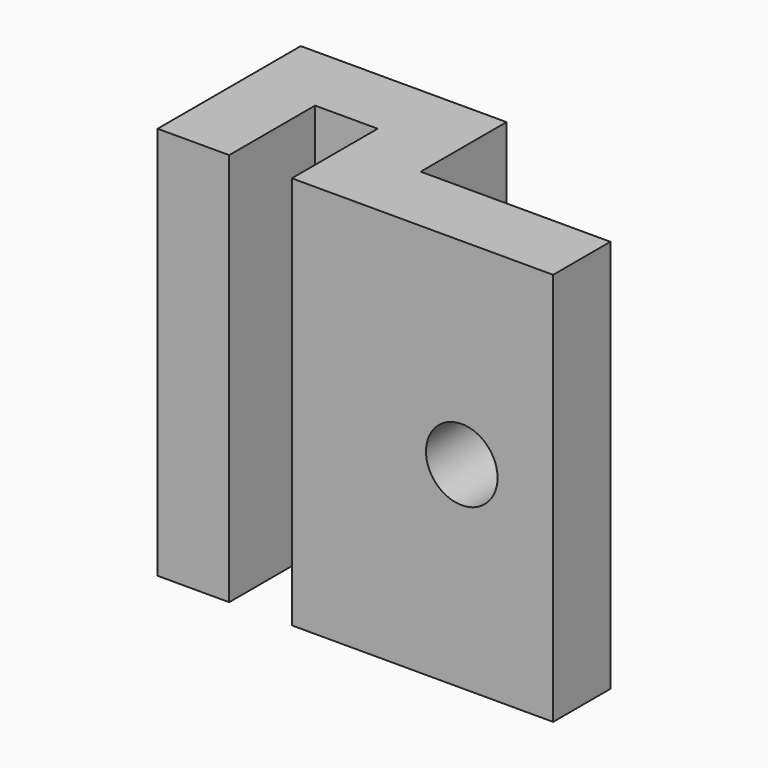
from build123d import *

# Parameters (mm, degrees)
CYLINDER_R          = 1
CYLINDER_DEPTH      = 10
CYLINDER_ROLL_ANGLE = -90
EXTRUDE_DEPTH       = 11


with BuildPart() as cylinder:
    # Cylinder → Cylinder (new body)
    with BuildSketch(Plane.XY):
        Circle(CYLINDER_R)
    extrude(amount=CYLINDER_DEPTH)


with BuildPart() as cylinder_1:
    # Cylinder roll: moved
    add(cylinder.part.rotate(Axis((0, 0, 0), (1, 0, 0)), CYLINDER_ROLL_ANGLE))


with BuildPart() as cylinder_2:
    # Cylinder placement: moved
    add(cylinder_1.part.moved(Location((6.5, 0, 5.5))))


with BuildPart() as cut:
    # Sketch → Extrude (new body)
    with BuildSketch(Plane.XY):
        Polygon((-2, 0), (-2, 5), (3.75, 5), (3.75, 2), (9.053131, 2), (9.053131, 0), (1.75, 0), (1.75, 3), (0, 3), (0, 0), align=None)
    extrude(amount=EXTRUDE_DEPTH)

    # Cut: cut Cylinder
    add(cylinder_2.part, mode=Mode.SUBTRACT)


solid = cut.part
